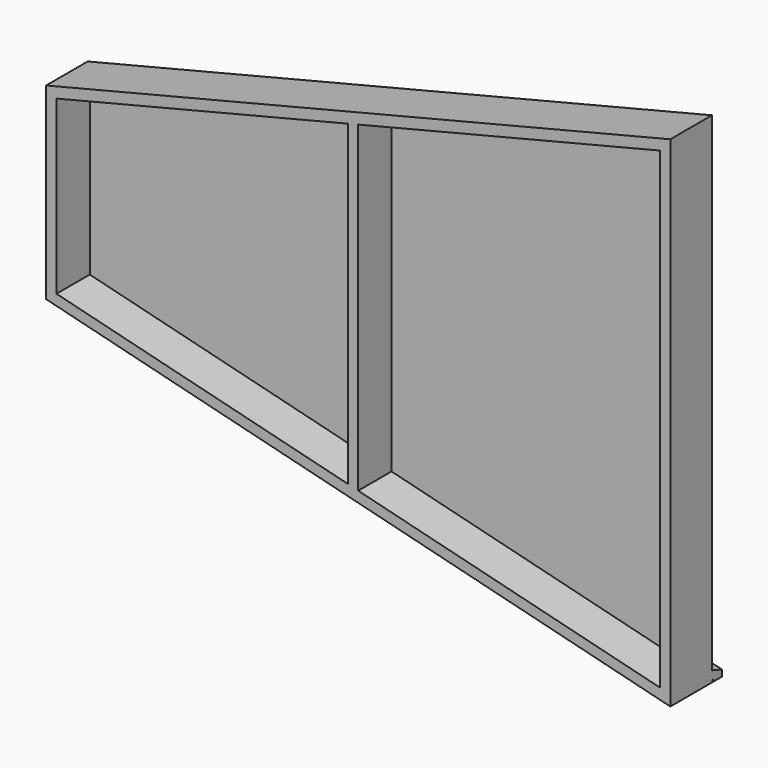
from build123d import *

# Parameters (mm, degrees)
F1_DEPTH  = 125
F3_DEPTH  = 50
F5_DEPTH  = 125.001
F9_DEPTH  = 30
F12_DEPTH = 1552.1546440959
F13_W     = 3
F13_H     = 5
F14_DEPTH = 1552.1546440959
F15_DEPTH = 4


with BuildPart() as f1:
    # F0 (on Front) → F1 (new body)
    with BuildSketch(Plane.XZ):
        Polygon((-1500, 373.9920042648), (0, 0), (0, 1200), (-1500, 826.0079957352), align=None)
    extrude(amount=F1_DEPTH)

    # F2 (on face) → F3 (cut)
    with BuildSketch(Plane.XZ.offset(125)):
        Polygon((-25, 31.9985408048), (-25, 1168.0014591952), (-750, 987.2386571339), (-750, 212.7613428661), align=None)
        Polygon((-1475, 806.4758550726), (-1475, 393.5241449274), (-775, 218.9945429372), (-775, 981.0054570628), align=None)
    extrude(amount=-F3_DEPTH, mode=Mode.SUBTRACT)

    # F4 (on face) → F5 (cut, through all)
    with BuildSketch(Plane(origin=(0, 0, 0), x_dir=(-1, 0, 0), z_dir=(0, 1, 0))):
        Polygon((750, 987.2386571339), (25, 1168.0014591952), (25, 31.9985408048), (750, 212.7613428661), align=None)
        Polygon((775, 218.9945429372), (1475, 393.5241449274), (1475, 806.4758550726), (775, 981.0054570628), align=None)
    extrude(amount=-F5_DEPTH, mode=Mode.SUBTRACT)

    # F8 (on face) → F9 (join)
    with BuildSketch(Plane(origin=(0, 0, 0), x_dir=(-1, 0, 0), z_dir=(0, 1, 0))):
        Polygon((1500, 399.7573449985), (750, 212.7613428661), (25, 31.9985408048), (0, 25.7653407337), (0, 0), (1500, 373.9920042648), align=None)
    extrude(amount=F9_DEPTH)

    # F11 (on face) → F12 (cut, through all)
    with BuildSketch(Plane(origin=(-1506.04804739, 0, 375.4999518416), x_dir=(0, 1, 0), z_dir=(0.9702957263, 0, -0.2419218956))):
        Polygon((30, 15), (30, 25), (0, 25), align=None)
    extrude(amount=F12_DEPTH, mode=Mode.SUBTRACT)

    # F13 (on face) → F14 (cut, through all)
    with BuildSketch(Plane(origin=(-1506.04804739, 0, 375.4999518416), x_dir=(0, 1, 0), z_dir=(0.9702957263, 0, -0.2419218956))):
        with Locations((3.5, 2.5)):
            Rectangle(F13_W, F13_H)
    extrude(amount=F14_DEPTH, mode=Mode.SUBTRACT)


with BuildPart() as f15:
    # F7 (on offset) → F15 (new body)
    with BuildSketch(Plane.XZ.offset(25)):
        Polygon((-25, 31.9985408048), (-25, 1168.0014591952), (-750, 987.2386571339), (-750, 212.7613428661), align=None)
    extrude(amount=-F15_DEPTH)


with BuildPart() as f15b:
    # F7 (on offset) → F15, piece 2 (new body)
    with BuildSketch(Plane.XZ.offset(25)):
        Polygon((-775, 218.9945429372), (-775, 981.0054570628), (-1475, 806.4758550726), (-1475, 393.5241449274), align=None)
    extrude(amount=-F15_DEPTH)


solid = Compound([f1.part, f15.part, f15b.part])
